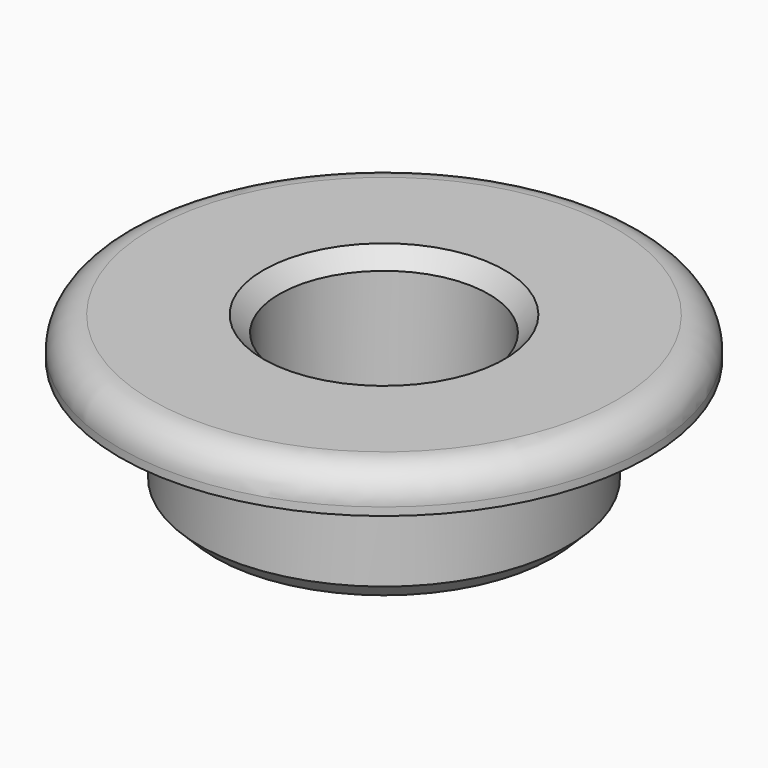
from build123d import *

# Parameters (mm, degrees)
F2_R    = 5.08
F3_SIZE = 2.54
F4_SIZE = 2.54


with BuildPart() as f1:
    # F0 (on Front) → F1 (revolve)
    with BuildSketch(Plane.XZ):
        Polygon((-42.06875, 0), (-29.36875, 0), (-29.36875, -19.05), (-16.66875, -19.05), (-16.66875, 6.35), (-42.06875, 6.35), align=None)
    revolve(axis=Axis((0, 0, -9.525), (0, 0, -1)))

    # F2
    f2_edges = [f1.edges().sort_by_distance(p)[0] for p in [
        (42.06875, 0, 6.35),
    ]]
    fillet(f2_edges, radius=F2_R)

    # F3
    f3_edges = [f1.edges().sort_by_distance(p)[0] for p in [
        (16.66875, 0, 6.35),
    ]]
    chamfer(f3_edges, length=F3_SIZE)

    # F4
    f4_edges = [f1.edges().sort_by_distance(p)[0] for p in [
        (29.36875, 0, -19.05),
    ]]
    chamfer(f4_edges, length=F4_SIZE)


solid = f1.part
